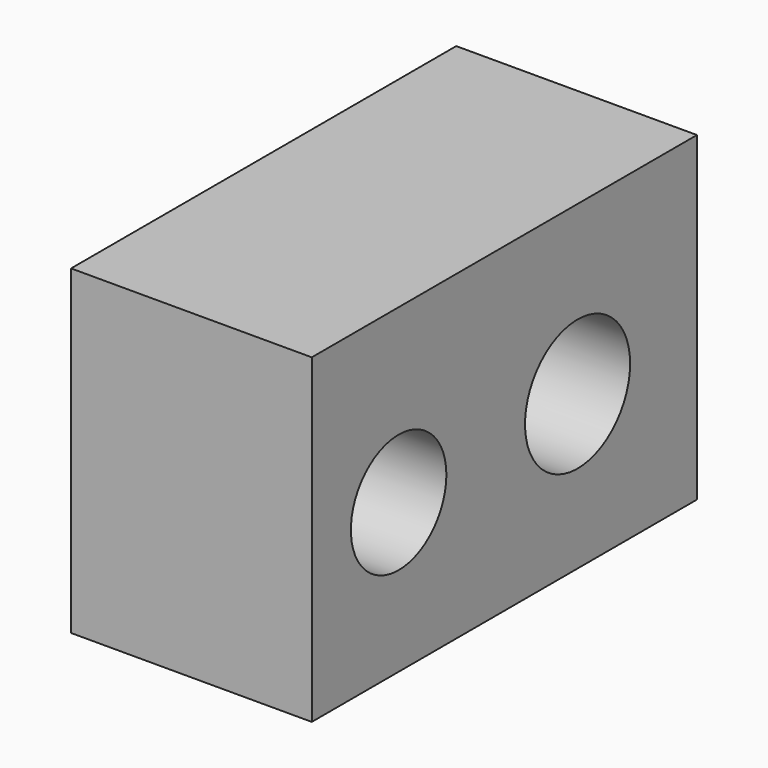
from build123d import *

# Parameters (mm, degrees)
F0_W          = 19.05
F0_H          = 38.1
F1_DEPTH      = 25.4
F2_R          = 4.7236631707
F2_R_2        = 5.1973210693
F3_DEPTH      = 25.4
F3_DEPTH_BACK = 25.4


with BuildPart() as f1:
    # F0 (on Top) → F1 (new body)
    with BuildSketch(Plane.XY):
        Rectangle(F0_W, F0_H)
    extrude(amount=F1_DEPTH)

    # F2 (on Right) → F3 (cut, two sides)
    with BuildSketch(Plane.YZ) as f3_sk:
        with Locations((-10.459408164, 11.8003571406)):
            Circle(F2_R)
        with Locations((7.2411275469, 12.1579440311)):
            Circle(F2_R_2)
    extrude(amount=-F3_DEPTH, mode=Mode.SUBTRACT)
    extrude(f3_sk.sketch, amount=F3_DEPTH_BACK, mode=Mode.SUBTRACT)


solid = f1.part
